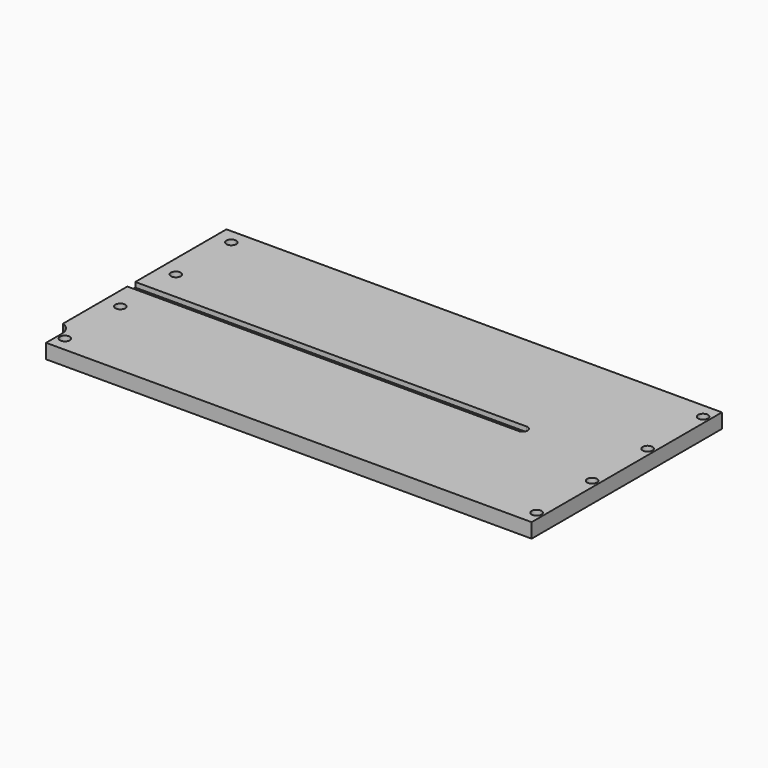
from build123d import *

# Parameters (mm, degrees)
BOX_W              = 500
BOX_H              = 240
BOX_DEPTH          = 14.7
POCKET_DEPTH       = 14.701
SKETCH001_R        = 5
POCKET001_DEPTH    = 6
SKETCH001001_R     = 3.25
POCKET002_DEPTH    = 14.701
POCKET003001_DEPTH = 5


with BuildPart() as part:
    # Box → Box (new body)
    with BuildSketch(Plane.XY):
        with Locations((250, 120)):
            Rectangle(BOX_W, BOX_H)
    extrude(amount=BOX_DEPTH)

    # Sketch → Pocket (cut, through all)
    with BuildSketch(Plane.XY.offset(14.7)):
        with BuildLine():
            Line((10.001, 0), (10.001, 19.857041))
            ThreePointArc((10.001, 19.857041), (5.607587, 30.463616), (-4.999, 34.857))
            Line((-4.999, 0), (-4.999, 34.857))
            Line((10.001, 0), (-4.999, 0))
        make_face()
    extrude(amount=-POCKET_DEPTH, mode=Mode.SUBTRACT)

    # Sketch001 → Pocket001 (cut)
    with BuildSketch(Plane.XY.offset(14.7)):
        with Locations((17, 225)):
            Circle(SKETCH001_R)
        with Locations((17, 85)):
            Circle(SKETCH001_R)
        with Locations((17, 15)):
            Circle(SKETCH001_R)
        with Locations((17, 155)):
            Circle(SKETCH001_R)
        with Locations((493, 155)):
            Circle(SKETCH001_R)
        with Locations((493, 85)):
            Circle(SKETCH001_R)
        with Locations((493, 225)):
            Circle(SKETCH001_R)
        with Locations((493, 15)):
            Circle(SKETCH001_R)
    extrude(amount=-POCKET001_DEPTH, mode=Mode.SUBTRACT)

    # Sketch001001 → Pocket002 (cut, through all)
    with BuildSketch(Plane.XY.offset(14.7)):
        with Locations((17, 225)):
            Circle(SKETCH001001_R)
        with Locations((17, 85)):
            Circle(SKETCH001001_R)
        with Locations((17, 15)):
            Circle(SKETCH001001_R)
        with Locations((17, 155)):
            Circle(SKETCH001001_R)
        with Locations((493, 155)):
            Circle(SKETCH001001_R)
        with Locations((493, 85)):
            Circle(SKETCH001001_R)
        with Locations((493, 225)):
            Circle(SKETCH001001_R)
        with Locations((493, 15)):
            Circle(SKETCH001001_R)
    extrude(amount=-POCKET002_DEPTH, mode=Mode.SUBTRACT)

    # Sketch001002 → Pocket003001 (cut)
    with BuildSketch(Plane.XY.offset(14.7)):
        with BuildLine():
            Line((395, 125), (0, 125))
            Line((0, 125), (0, 115))
            Line((0, 115), (395, 115))
            ThreePointArc((395, 115), (400.000017, 120), (395, 125))
        make_face()
    extrude(amount=-POCKET003001_DEPTH, mode=Mode.SUBTRACT)


solid = part.part
